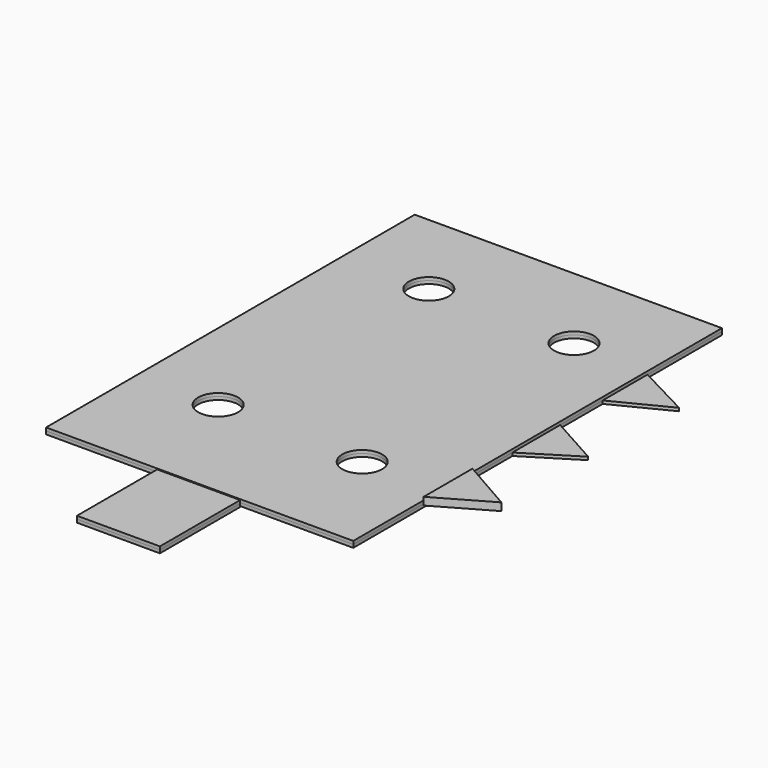
from build123d import *

# Parameters (mm, degrees)
F7_DEPTH  = 1
F5_R      = 6.5
F9_DEPTH  = 1
F10_DEPTH = 25
F11_R     = 6.5
F12_DEPTH = 25
F3_R      = 6.5
F13_DEPTH = 25
F14_R     = 6.5
F15_DEPTH = 25
F6_W      = 27
F6_H      = 32.6264798641
F16_DEPTH = 1
F17_DEPTH = 1
F19_DEPTH = 1
F20_DEPTH = 2.5


with BuildPart() as f7:
    # F1 (on face) → F7 (new body)
    with BuildSketch(Plane.XY):
        Polygon((67.6991255428, 35.4470872208), (50, 44.7180596117), (50, 26.4886961589), align=None)
    extrude(amount=F7_DEPTH)

    # F8 (on face) → F10 (cut)
    with BuildSketch(Plane.XY):
        Polygon((-50, -75), (50, -75), (50, -10.228929481), (50, 9.1847554396), (50, 75), (-50, 75), align=None)
    extrude(amount=-F10_DEPTH, mode=Mode.SUBTRACT)

    # F3 (on face) → F13 (cut)
    with BuildSketch(Plane.XY):
        with Locations((-21.6921102256, 45.2101491392)):
            Circle(F3_R)
    extrude(amount=-F13_DEPTH, mode=Mode.SUBTRACT)


with BuildPart() as f7b:
    # F2 (on face) → F7, piece 2 (new body)
    with BuildSketch(Plane.XY):
        Polygon((66.4692148566, 0), (50, 9.1847554396), (50, -10.228929481), align=None)
    extrude(amount=F7_DEPTH)


with BuildPart() as f9:
    # F5 (on face) → F9 (new body)
    with BuildSketch(Plane.XY):
        Polygon((-50, -75), (50, -75), (50, -10.228929481), (50, 9.1847554396), (50, 75), (-50, 75), align=None)
        with Locations((24.5588049293, -39.565525949)):
            Circle(F5_R, mode=Mode.SUBTRACT)
        with Locations((25.8289668709, 45.0272187591)):
            Circle(F5_R, mode=Mode.SUBTRACT)
    extrude(amount=F9_DEPTH)

    # F11 (on face) → F12 (cut)
    with BuildSketch(Plane.XY.offset(1)):
        with Locations((-21.6734521091, 45.3278496861)):
            Circle(F11_R)
    extrude(amount=-F12_DEPTH, mode=Mode.SUBTRACT)

    # F14 (on face) → F15 (cut)
    with BuildSketch(Plane.XY.offset(1)):
        with Locations((-23.6205700785, -37.958946079)):
            Circle(F14_R)
    extrude(amount=-F15_DEPTH, mode=Mode.SUBTRACT)


with BuildPart() as f16:
    # F6 (on face) → F16 (new body)
    with BuildSketch(Plane.XY):
        with Locations((0, -91.7416587472)):
            Rectangle(F6_W, F6_H)
    extrude(amount=F16_DEPTH)


with BuildPart() as f17:
    # F17 (new): a face of the model
    f17_faces = [f16.part.faces().sort_by_distance(p)[0] for p in [
        (0, -91.7416587472, 1),
    ]]
    extrude(f17_faces, amount=F17_DEPTH)


with BuildPart() as f17b:
    # F17#2 (new): a face of the model
    f17_2_faces = [f9.part.faces().sort_by_distance(p)[0] for p in [
        (-0.0467276065, -0.1177017141, 1),
    ]]
    extrude(f17_2_faces, amount=F17_DEPTH)


with BuildPart() as f19:
    # F18 (on face) → F19 (new body)
    with BuildSketch(Plane.XY.offset(2)):
        Polygon((67.3561024125, -36.4340830519), (50, -26.4959892181), (50, -46.3721768856), align=None)
    extrude(amount=F19_DEPTH)


with BuildPart() as f20:
    # F20 (new): a face of the model
    f20_faces = [f19.part.faces().sort_by_distance(p)[0] for p in [
        (55.7853674708, -36.4340830519, 3),
    ]]
    extrude(f20_faces, amount=-F20_DEPTH)


solid = Compound([f7.part, f7b.part, f9.part, f16.part, f17.part, f17b.part, f19.part, f20.part])
